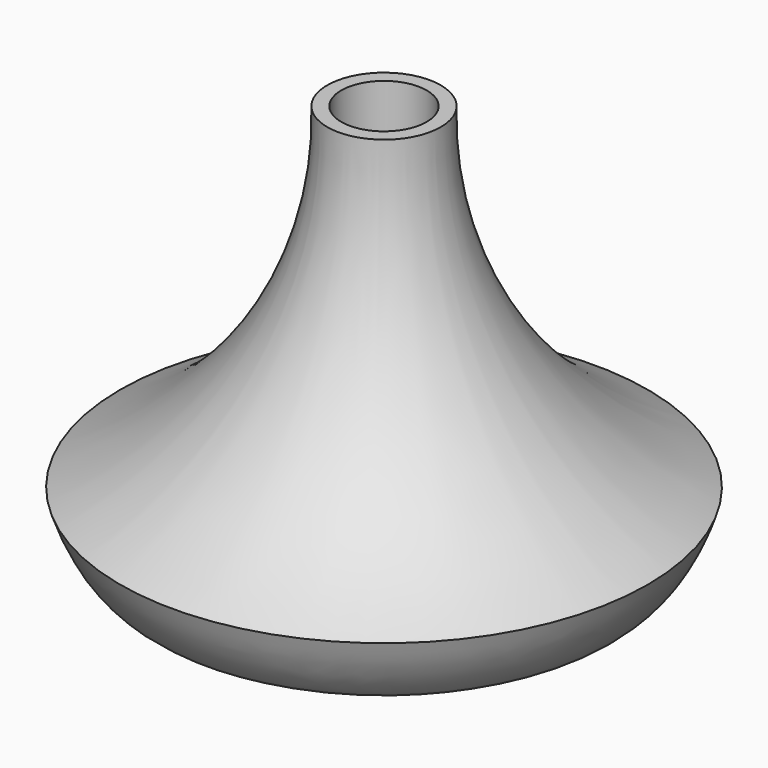
from build123d import *

# Parameters (mm, degrees)
F2_R     = 4.953
F3_DEPTH = 9.525
F4_DEPTH = 17.78


with BuildPart() as f1:
    # F0 (on Front) → F1 (revolve)
    with BuildSketch(Plane.XZ):
        with BuildLine():
            Line((0, 50.8), (0, 0))
            Line((0, 0), (2.54, 0))
            add(Edge.make_bspline(
                [(2.54, 0), (4.6722859433, 1.6956295225), (4.2763701134, 21.355319139), (23.4021219766, -4.0701360184), (29.4854754081, 8.3711690183), (30.601150829, 11.8996728591)],
                knots=[0, 0, 0, 0, 0.3185237965, 0.6935888291, 1, 1, 1, 1], degree=3))
            ThreePointArc((30.601150829, 11.8996728591), (12.7701470866, 27.7559149939), (6.5786, 50.8))
            Line((6.5786, 50.8), (0, 50.8))
        make_face()
    revolve(axis=Axis((0, 0, 25.4), (0, 0, 1)))

    # F2 (on face) → F3 (cut)
    with BuildSketch(Plane.XY.offset(50.8)):
        Circle(F2_R)
    extrude(amount=-F3_DEPTH, mode=Mode.SUBTRACT)

    # F4 (cut): a face of the model
    f4_faces = [f1.faces().sort_by_distance(p)[0] for p in [
        (0, 0, 0),
    ]]
    extrude(f4_faces, amount=-F4_DEPTH, mode=Mode.SUBTRACT)


solid = f1.part
